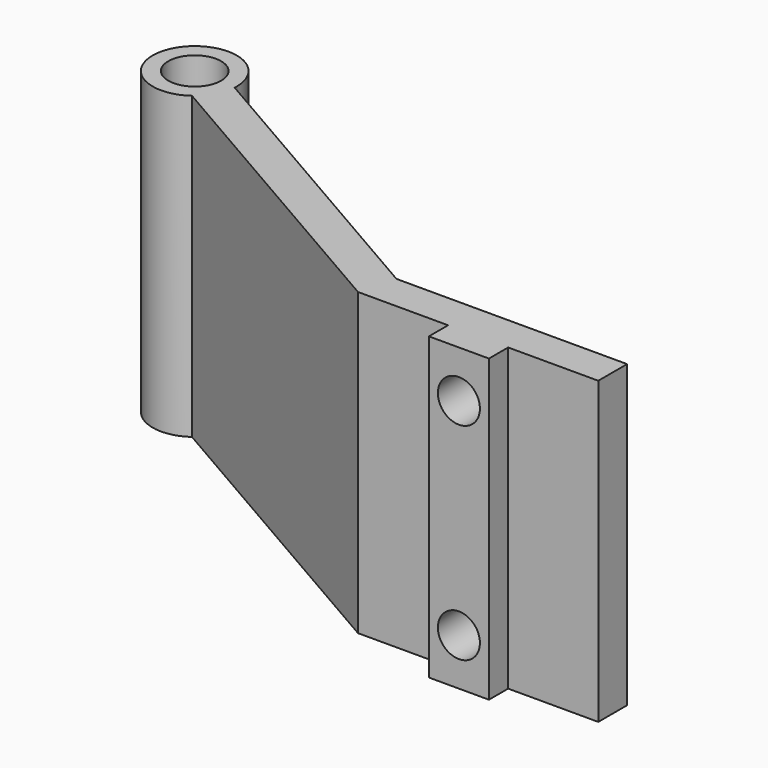
from build123d import *

# Parameters (mm, degrees)
F0_R          = 2.2
F0_W          = 5
F0_H          = 2
F1_DEPTH      = 25
F4_DEPTH      = 1.5
F4_DEPTH_BACK = 1.5
F5_R          = 1.75
F6_DEPTH      = 25


with BuildPart() as f1:
    # F0 (on Top) → F1 (new body)
    with BuildSketch(Plane.XY):
        with BuildLine():
            Line((-48.139875, 23.066107), (-47.886185, 22.919639))
            ThreePointArc((-47.886185, 22.919639), (-47.881315, 23.026134), (-47.879692, 23.132728))
            ThreePointArc((-47.879692, 23.132728), (-54.494673, 24.728627), (-49.33506, 20.292046))
            Line((-49.33506, 20.292046), (-49.639875, 20.468031))
            Line((-49.639875, 20.468031), (-48.139875, 23.066107))
        make_face()
        with Locations((-51.379692, 23.132728)):
            Circle(F0_R, mode=Mode.SUBTRACT)
        with BuildLine():
            ThreePointArc((-49.33506, 20.292046), (-48.31476, 21.442701), (-47.886185, 22.919639))
            Line((-47.886185, 22.919639), (-48.139875, 23.066107))
            Line((-48.139875, 23.066107), (-49.639875, 20.468031))
            Line((-49.639875, 20.468031), (-49.33506, 20.292046))
        make_face()
        with BuildLine():
            Line((-23.659113, 5.468031), (-23.659113, 8.468031))
            Line((-23.659113, 8.468031), (-22.855266, 8.468031))
            Line((-22.855266, 8.468031), (-47.886185, 22.919639))
            ThreePointArc((-47.886185, 22.919639), (-48.31476, 21.442701), (-49.33506, 20.292046))
            Line((-49.33506, 20.292046), (-23.659113, 5.468031))
        make_face()
        with Locations((-13.659113, 4.468031)):
            Rectangle(F0_W, F0_H)
        Polygon((-3.659113, 8.468031), (-22.855266, 8.468031), (-22.159113, 8.066107), (-23.659113, 5.468031), (-16.159113, 5.468031), (-11.159113, 5.468031), (-3.659113, 5.468031), align=None)
        Polygon((-22.855266, 8.468031), (-23.659113, 8.468031), (-23.659113, 5.468031), (-22.159113, 8.066107), align=None)
    extrude(amount=F1_DEPTH)

    # F3 (on offset) → F4 (join, two sides)
    with BuildSketch(Plane.XY.offset(12.5)) as f4_sk:
        Polygon((-3.659113, 8.468031), (-47.886185, 22.919639), (-22.855266, 8.468031), align=None)
    extrude(amount=F4_DEPTH)
    extrude(f4_sk.sketch, amount=-F4_DEPTH_BACK)

    # F5 (on face) → F6 (cut)
    with BuildSketch(Plane(origin=(0, 8.468031, 0), x_dir=(-1, 0, 0), z_dir=(0, 1, 0))):
        with Locations((13.659113, 3.913301)):
            Circle(F5_R)
        with Locations((13.659113, 21.086699)):
            Circle(F5_R)
    extrude(amount=-F6_DEPTH, mode=Mode.SUBTRACT)


solid = f1.part
